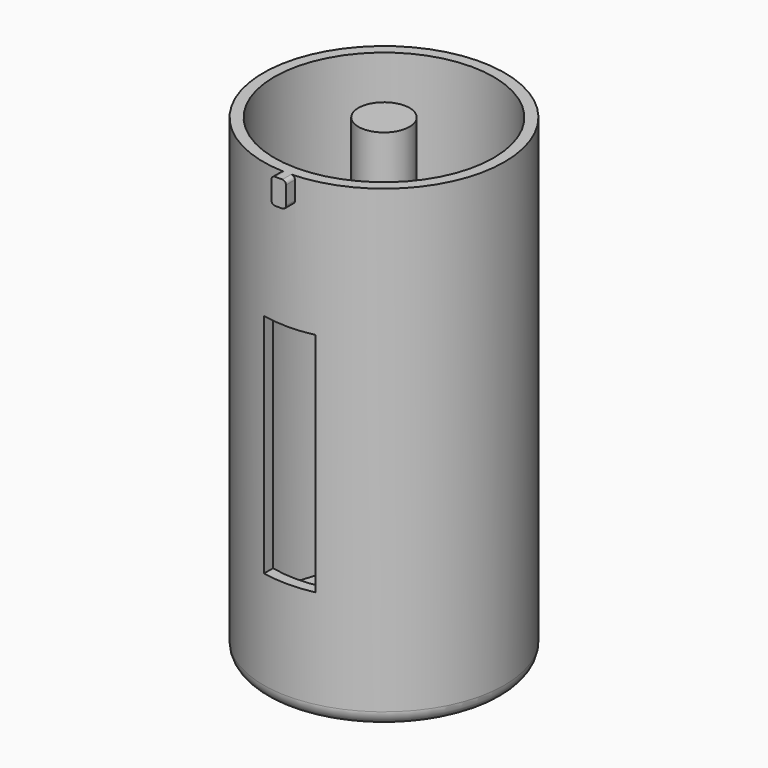
from build123d import *

# Parameters (mm, degrees)
F0_R      = 16.5
F0_R_2    = 15
F1_DEPTH  = 3
F2_R      = 16.5
F2_R_2    = 15
F3_DEPTH  = 62
F4_R      = 3.5
F5_DEPTH  = 62
F7_W      = 7
F7_H      = 31
F8_DEPTH  = 20
F11_DEPTH = 1.5
F12_R     = 2


with BuildPart() as f1:
    # F0 (on Top) → F1 (new body)
    with BuildSketch(Plane.XY):
        Circle(F0_R)
        Circle(F0_R_2, mode=Mode.SUBTRACT)
        Circle(F0_R_2)
    extrude(amount=F1_DEPTH)

    # F2 (on face) → F3 (join)
    with BuildSketch(Plane.XY.offset(3)):
        Circle(F2_R)
        Circle(F2_R_2, mode=Mode.SUBTRACT)
    extrude(amount=F3_DEPTH)

    # F4 (on face) → F5 (join)
    with BuildSketch(Plane.XY.offset(3)):
        Circle(F4_R)
    extrude(amount=F5_DEPTH)

    # F7 (on offset) → F8 (cut)
    with BuildSketch(Plane.XZ.offset(30)):
        with Locations((0, 31)):
            Rectangle(F7_W, F7_H)
    extrude(amount=-F8_DEPTH, mode=Mode.SUBTRACT)

    # F10 (on offset) → F11 (join, symmetric)
    with BuildSketch(Plane.XZ.offset(16.5)):
        with BuildLine():
            Line((0.5, 65), (0, 65))
            Line((0, 65), (-0.5, 65))
            ThreePointArc((-0.5, 65), (-0.853553, 64.853553), (-1, 64.5))
            Line((-1, 64.5), (-1, 62))
            ThreePointArc((-1, 62), (-0.853553, 61.646447), (-0.5, 61.5))
            Line((-0.5, 61.5), (0.5, 61.5))
            ThreePointArc((0.5, 61.5), (0.853553, 61.646447), (1, 62))
            Line((1, 62), (1, 64.5))
            ThreePointArc((1, 64.5), (0.853553, 64.853553), (0.5, 65))
        make_face()
    extrude(amount=F11_DEPTH, both=True)

    # F12
    f12_edges = [f1.edges().sort_by_distance(p)[0] for p in [
        (-16.5, 0, 0),
    ]]
    fillet(f12_edges, radius=F12_R)


solid = f1.part
